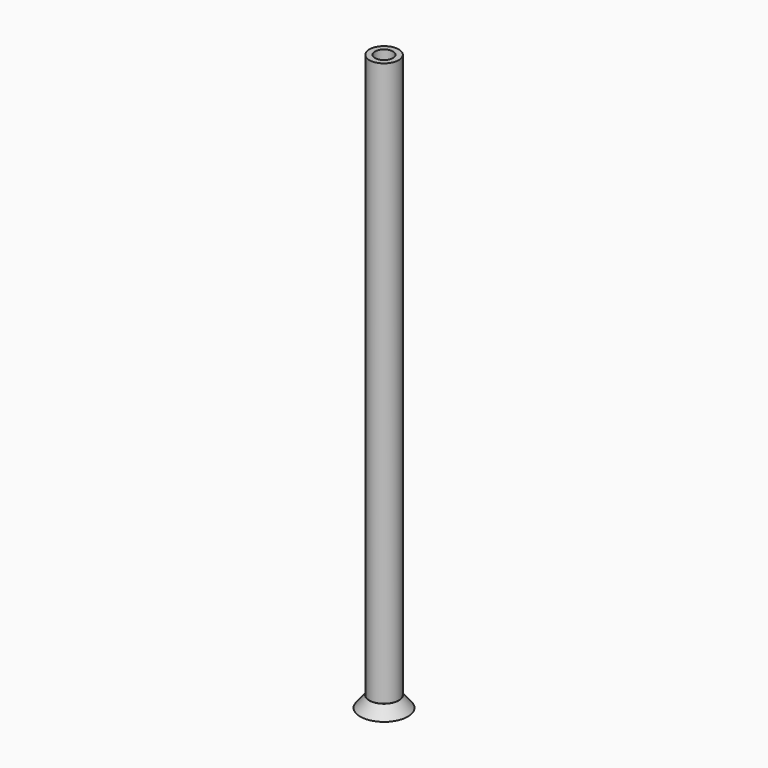
from build123d import *

# Parameters (mm, degrees)
THICKNESS_T   = 2
SKETCH001_R   = 6.5
SKETCH001_R_2 = 4
PAD_DEPTH     = 250


with BuildPart() as part:
    # Sketch → Revolution (revolve)
    with BuildSketch(Plane.XZ):
        Polygon((0, 0), (8, 0), (4, 5), (0, 5), align=None)
    revolve(axis=Axis((0, 0, 0), (0, 0, 1)))

    # Thickness
    thickness_openings = [part.faces().sort_by_distance(p)[0] for p in [
        (0, 0, 5),
        (0, 0, 0),
    ]]
    offset(amount=THICKNESS_T, openings=thickness_openings)

    # Sketch001 (on Face4 of Thickness) → Pad (new body)
    with BuildSketch(Plane.XY.offset(5)):
        Circle(SKETCH001_R)
        Circle(SKETCH001_R_2, mode=Mode.SUBTRACT)
    extrude(amount=PAD_DEPTH)


solid = part.part
